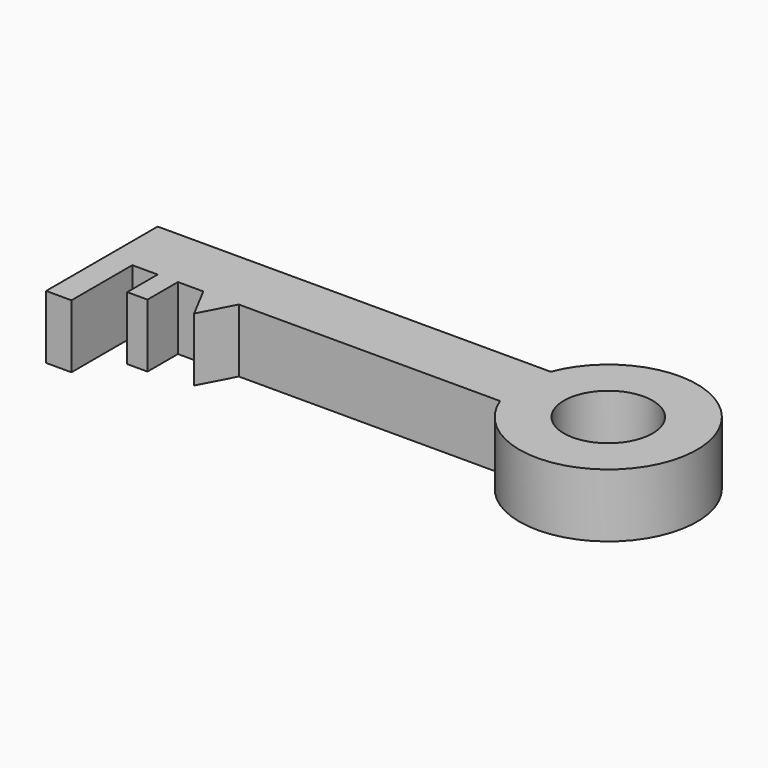
from build123d import *

# Parameters (mm, degrees)
F0_R     = 17.5
F0_W     = 8
F0_H     = 15
F1_DEPTH = 25


with BuildPart() as f1:
    # F0 (on Top) → F1 (new body)
    with BuildSketch(Plane.XY):
        Polygon((-63.045189, -13.34746), (-63.722597, -13.34746), (-63.722597, -43.34746), (-53.722597, -43.34746), (-53.722597, -13.34746), align=None)
        with BuildLine():
            Line((91.277403, 11.65254), (-63.722597, 11.65254))
            Line((-63.722597, 11.65254), (-63.722597, -13.34746))
            Line((-63.722597, -13.34746), (-63.045189, -13.34746))
            Line((-63.045189, -13.34746), (-53.722597, -13.34746))
            Line((-53.722597, -13.34746), (-43.722597, -13.34746))
            Line((-43.722597, -13.34746), (-35.722597, -13.34746))
            Line((-35.722597, -13.34746), (-25.722597, -13.34746))
            Line((-25.722597, -13.34746), (-11.722597, -13.34746))
            Line((-11.722597, -13.34746), (91.277403, -13.34746))
            ThreePointArc((91.277403, -13.34746), (158.969145, -0.84746), (91.277403, 11.65254))
        make_face()
        with Locations((123.969145, -0.84746)):
            Circle(F0_R, mode=Mode.SUBTRACT)
        with Locations((-39.722597, -20.84746)):
            Rectangle(F0_W, F0_H)
        Polygon((-18.722597, -26.613959), (-11.722597, -13.34746), (-25.722597, -13.34746), align=None)
    extrude(amount=F1_DEPTH)


solid = f1.part
